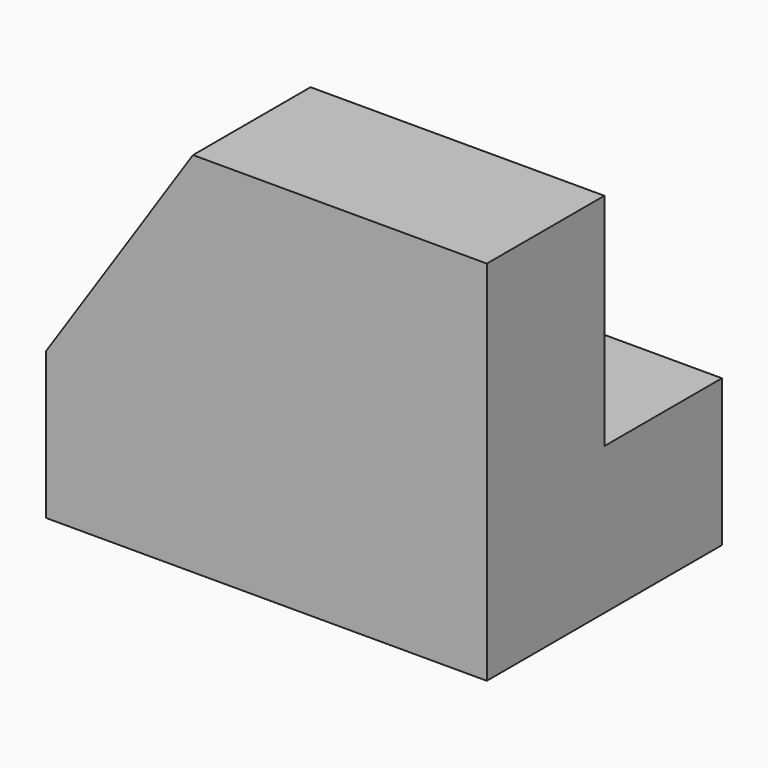
from build123d import *

# Parameters (mm, degrees)
F0_W     = 25.4
F0_H     = 31.75
F1_DEPTH = 38.1
F2_W     = 12.7
F2_H     = 19.05
F3_DEPTH = 38.1
F5_DEPTH = 25.4
F7_DEPTH = 25.4


with BuildPart() as f1:
    # F0 (on Right) → F1 (new body)
    with BuildSketch(Plane.YZ):
        with Locations((12.7, 15.875)):
            Rectangle(F0_W, F0_H)
    extrude(amount=F1_DEPTH)

    # F2 (on face) → F3 (cut)
    with BuildSketch(Plane(origin=(0, 0, 0), x_dir=(0, -1, 0), z_dir=(-1, 0, 0))):
        with Locations((-19.05, 22.225)):
            Rectangle(F2_W, F2_H)
    extrude(amount=-F3_DEPTH, mode=Mode.SUBTRACT)

    # F4 (on face) → F5 (cut)
    with BuildSketch(Plane(origin=(0, 12.7, 0), x_dir=(-1, 0, 0), z_dir=(0, 1, 0))):
        Polygon((0, 31.75), (-12.7, 31.75), (0, 12.7), align=None)
    extrude(amount=-F5_DEPTH, mode=Mode.SUBTRACT)

    # F6 (on face) → F7 (cut)
    with BuildSketch(Plane.XY.offset(12.7)):
        Polygon((0, 25.4), (0, 12.7), (12.7, 25.4), align=None)
    extrude(amount=-F7_DEPTH, mode=Mode.SUBTRACT)


solid = f1.part
